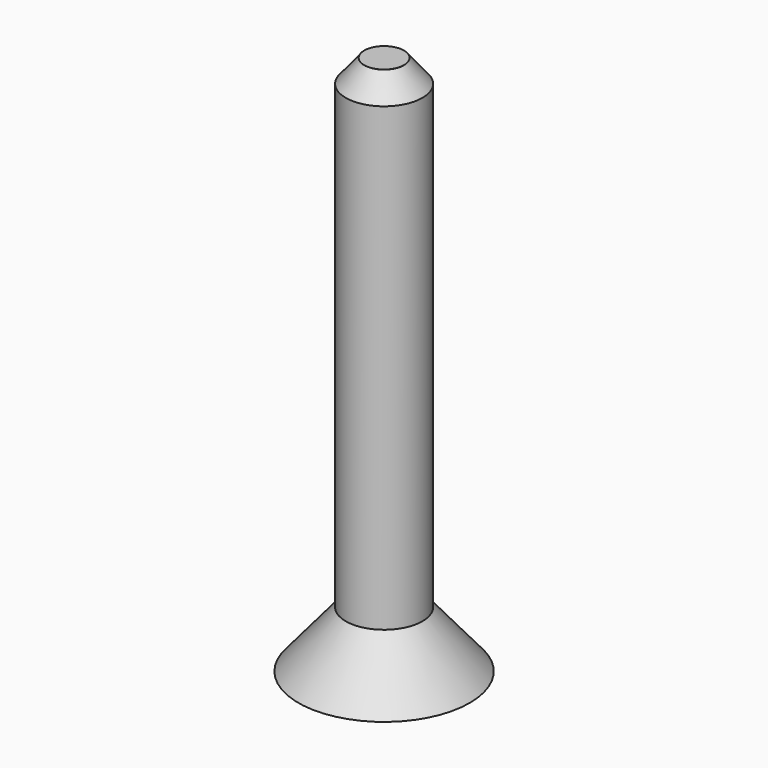
from build123d import *

# Parameters (mm, degrees)
F0_R     = 34.4760551883
F1_DEPTH = 25.4
F1_TAPER = 40
F2_R     = 15.4170929596
F3_DEPTH = 217.2726094723


with BuildPart() as f1:
    # F0 (on Top) → F1 (new body)
    with BuildSketch(Plane.XY):
        Circle(F0_R)
    extrude(amount=F1_DEPTH, taper=F1_TAPER)

    # F2 (on Top) → F3 (join)
    with BuildSketch(Plane.XY):
        Circle(F2_R)
    extrude(amount=F3_DEPTH)

    # F4 (on Right) → F5 (revolve, cut)
    with BuildSketch(Plane.YZ):
        Polygon((9.2559680343, 224.6120274067), (7.9776421189, 217.2289937735), (15.5677124858, 207.9138755798), (24.6758013964, 207.9138755798), (24.6758013964, 224.6120274067), align=None)
    revolve(axis=Axis((0, 0, 227.7240306139), (0, 0, 1)), mode=Mode.SUBTRACT)


solid = f1.part
